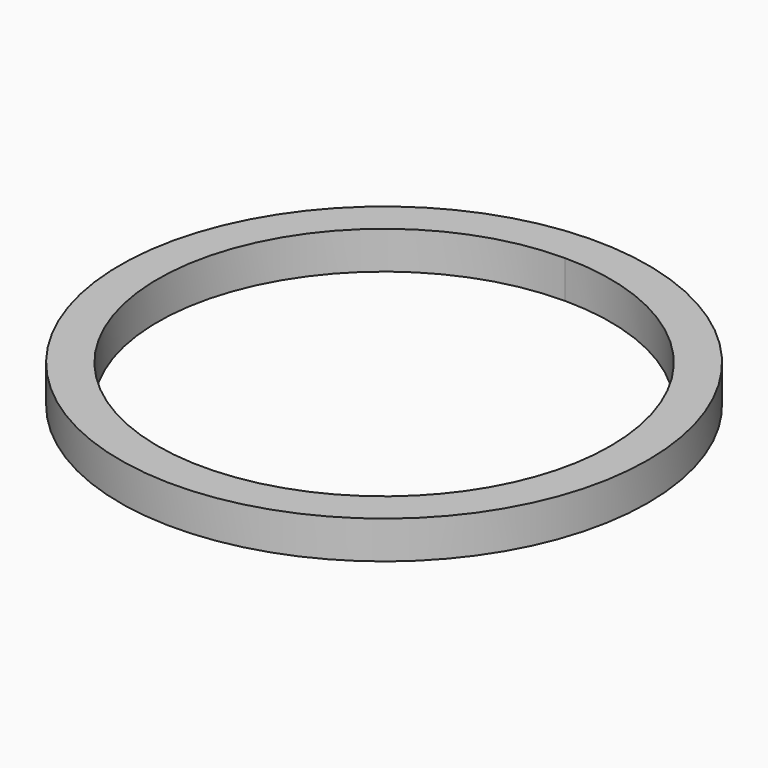
from build123d import *

# Parameters (mm, degrees)
F0_R     = 44.45
F1_DEPTH = 6.35


with BuildPart() as f1:
    # F0 (on Top) → F1 (new body)
    with BuildSketch(Plane.XY):
        Circle(F0_R)
        with BuildLine():
            ThreePointArc((26.940768, -26.940768), (0, -38.1), (-26.940768, -26.940768))
            ThreePointArc((-26.940768, -26.940768), (-35.19981, 14.580239), (0, 38.1))
            ThreePointArc((0, 38.1), (26.940768, 26.940768), (38.1, 0))
            ThreePointArc((38.1, 0), (35.19981, -14.580239), (26.940768, -26.940768))
        make_face(mode=Mode.SUBTRACT)
    extrude(amount=F1_DEPTH)


solid = f1.part
